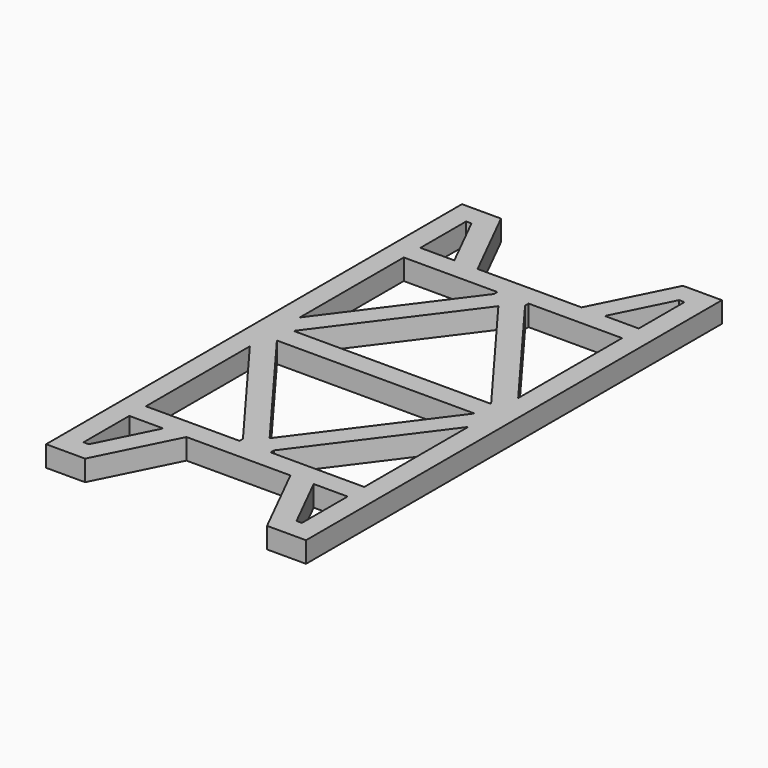
from build123d import *

# Parameters (mm, degrees)
F1_DEPTH = 8


with BuildPart() as f1:
    # F0 (on Top) → F1 (new body)
    with BuildSketch(Plane.XY):
        Polygon((-50, 100), (-50, 0), (-50, -100), (-35, -100), (-20, -70), (0, -70), (20, -70), (35, -100), (50, -100), (50, 0), (50, 100), (35, 100), (20, 70), (0, 70), (-20, 70), (-35, 100), align=None)
        Polygon((-39.944272, -92), (-42, -92), (-42, -70), (-28.944272, -70), align=None, mode=Mode.SUBTRACT)
        Polygon((-42, -12.021119), (-6, -60.336908), (-6, -62), (-42, -62), align=None, mode=Mode.SUBTRACT)
        Polygon((42, -70), (42, -92), (39.944272, -92), (28.944272, -70), align=None, mode=Mode.SUBTRACT)
        Polygon((0, -55), (-38, -4), (0, -4), (38, -4), align=None, mode=Mode.SUBTRACT)
        Polygon((6, -62), (6, -60.336908), (42, -12.021119), (42, -62), align=None, mode=Mode.SUBTRACT)
        Polygon((-6, 62), (-6, 60.336908), (-42, 12.021119), (-42, 62), align=None, mode=Mode.SUBTRACT)
        Polygon((-42, 92), (-39.944272, 92), (-28.944272, 70), (-42, 70), align=None, mode=Mode.SUBTRACT)
        Polygon((-38, 4), (0, 55), (38, 4), (0, 4), align=None, mode=Mode.SUBTRACT)
        Polygon((42, 12.021119), (6, 60.336908), (6, 62), (42, 62), align=None, mode=Mode.SUBTRACT)
        Polygon((39.944272, 92), (42, 92), (42, 70), (28.944272, 70), align=None, mode=Mode.SUBTRACT)
    extrude(amount=F1_DEPTH)


solid = f1.part
